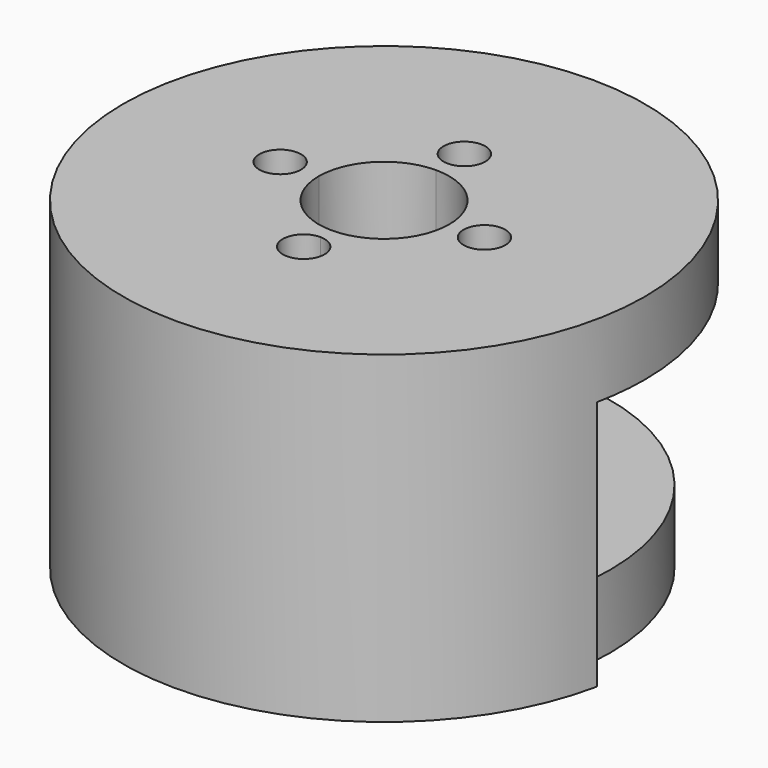
from build123d import *

# Parameters (mm, degrees)
F0_R      = 25.4
F0_R_2    = 22.225
F0_R_3    = 6.35
F1_DEPTH  = 7.112
F2_R      = 25.4
F2_R_2    = 22.225
F3_DEPTH  = 17.272
F4_R      = 2.032
F5_DEPTH  = 21.29049
F6_R      = 2.921
F7_DEPTH  = 3.81
F9_DEPTH  = 17.272
F10_R     = 25.4
F10_R_2   = 2.032
F11_DEPTH = 7.112
F12_DEPTH = 25.4


with BuildPart() as f1:
    # F0 (on Top) → F1 (new body)
    with BuildSketch(Plane.XY):
        with Locations((-2.9115700163, -0.1164628848)):
            Circle(F0_R)
        with Locations((-2.9115700163, -0.1164628848)):
            Circle(F0_R_2, mode=Mode.SUBTRACT)
        with Locations((-2.9115700163, -0.1164628848)):
            Circle(F0_R_2)
        with Locations((-2.9115700163, -0.1164628848)):
            Circle(F0_R_3, mode=Mode.SUBTRACT)
    extrude(amount=F1_DEPTH)

    # F2 (on face) → F3 (join)
    with BuildSketch(Plane.XY.offset(7.112)):
        with Locations((-2.9115700163, -0.1164628848)):
            Circle(F2_R)
        with Locations((-2.9115700163, -0.1164628848)):
            Circle(F2_R_2, mode=Mode.SUBTRACT)
    extrude(amount=F3_DEPTH)

    # F4 (on face) → F5 (cut)
    with BuildSketch(Plane.XY.offset(7.112)):
        with Locations((-2.9115700163, 9.6625371152)):
            Circle(F4_R)
        with Locations((-12.6905700163, -0.1164628848)):
            Circle(F4_R)
        with Locations((6.8674299837, -0.1164628848)):
            Circle(F4_R)
        with Locations((-2.9115700163, -9.8954628848)):
            Circle(F4_R)
    extrude(amount=-F5_DEPTH, mode=Mode.SUBTRACT)

    # F6 (on face) → F7 (cut)
    with BuildSketch(Plane.XY):
        with Locations((-2.9112251941, -9.8947474398)):
            Circle(F6_R)
        with Locations((6.8677748059, -0.1157474398)):
            Circle(F6_R)
        with Locations((-2.9112251941, 9.6632525602)):
            Circle(F6_R)
        with Locations((-12.6902251941, -0.1157474398)):
            Circle(F6_R)
    extrude(amount=F7_DEPTH, mode=Mode.SUBTRACT)

    # F8 (on face) → F9 (cut)
    with BuildSketch(Plane.XY.offset(24.384)):
        with BuildLine():
            ThreePointArc((-7.4796047728, 21.634024086), (12.685813093, 15.5216009657), (18.8507418749, -4.6278269968))
            Line((18.8507418749, -4.6278269968), (21.9596435736, -5.2723075843))
            ThreePointArc((21.9596435736, -5.2723075843), (15.0679881207, 17.9099891283), (-8.1321811666, 24.7412365103))
            Line((-8.1321811666, 24.7412365103), (-7.4796047728, 21.634024086))
        make_face()
    extrude(amount=-F9_DEPTH, mode=Mode.SUBTRACT)

    # F10 (on face) → F11 (join)
    with BuildSketch(Plane.XY.offset(24.384)):
        with Locations((-2.9115700163, -0.1164628848)):
            Circle(F10_R)
        with BuildLine():
            ThreePointArc((-0.8795700163, -9.8954628848), (-4.3484109957, -11.3323038641), (-2.9115700163, -7.8634628848))
            ThreePointArc((-2.9115700163, -7.8634628848), (-1.4747290369, -8.4586219054), (-0.8795700163, -9.8954628848))
        make_face(mode=Mode.SUBTRACT)
        with Locations((-13.0211196663, -0.1164628848)):
            Circle(F10_R_2, mode=Mode.SUBTRACT)
        with BuildLine():
            ThreePointArc((-2.9115700163, 6.2335371152), (1.5785580442, 4.3736651758), (3.4384299837, -0.1164628848))
            ThreePointArc((3.4384299837, -0.1164628848), (1.5785580442, -4.6065909453), (-2.9115700163, -6.4664628848))
            ThreePointArc((-2.9115700163, -6.4664628848), (-7.4016980768, -4.6065909453), (-9.2615700163, -0.1164628848))
            ThreePointArc((-9.2615700163, -0.1164628848), (-7.4016980768, 4.3736651758), (-2.9115700163, 6.2335371152))
        make_face(mode=Mode.SUBTRACT)
        with BuildLine():
            ThreePointArc((8.8994299837, -0.1164628848), (6.8674299837, -2.1484628848), (4.8354299837, -0.1164628848))
            ThreePointArc((4.8354299837, -0.1164628848), (6.8674299837, 1.9155371152), (8.8994299837, -0.1164628848))
        make_face(mode=Mode.SUBTRACT)
        with BuildLine():
            ThreePointArc((-0.8795700163, 9.6625371152), (-1.4747290369, 8.2256961359), (-2.9115700163, 7.6305371152))
            ThreePointArc((-2.9115700163, 7.6305371152), (-4.3484109957, 11.0993780946), (-0.8795700163, 9.6625371152))
        make_face(mode=Mode.SUBTRACT)
    extrude(amount=F11_DEPTH)

    # F8 (on face) → F12 (cut)
    with BuildSketch(Plane.XY.offset(24.384)):
        with BuildLine():
            ThreePointArc((-7.4796047728, 21.634024086), (12.685813093, 15.5216009657), (18.8507418749, -4.6278269968))
            Line((18.8507418749, -4.6278269968), (21.9596435736, -5.2723075843))
            ThreePointArc((21.9596435736, -5.2723075843), (15.0679881207, 17.9099891283), (-8.1321811666, 24.7412365103))
            Line((-8.1321811666, 24.7412365103), (-7.4796047728, 21.634024086))
        make_face()
    extrude(amount=-F12_DEPTH, mode=Mode.SUBTRACT)


solid = f1.part
